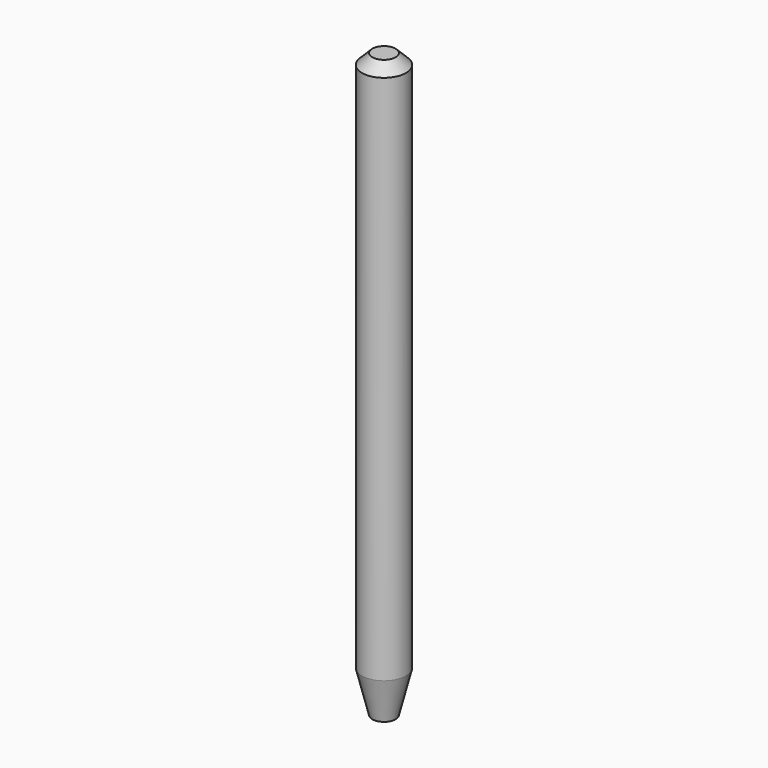
from build123d import *

# Parameters (mm, degrees)
F2_SIZE2 = 2.54
F2_SIZE  = 0.635
F3_SIZE  = 0.635


with BuildPart() as f1:
    # F0 (on Front) → F1 (revolve)
    with BuildSketch(Plane.XZ):
        Polygon((-1.3462, 0), (0, 0), (0, 35.56), (-1.3462, 35.56), (-1.3462, 12.7), align=None)
    revolve(axis=Axis((0, 0, 17.78), (0, 0, 1)))

    # F2
    f2_edges = [f1.edges().sort_by_distance(p)[0] for p in [
        (1.3462, 0, 0),
    ]]
    chamfer(f2_edges, length=F2_SIZE, length2=F2_SIZE2)

    # F3
    f3_edges = [f1.edges().sort_by_distance(p)[0] for p in [
        (1.3462, 0, 35.56),
    ]]
    chamfer(f3_edges, length=F3_SIZE)


solid = f1.part
